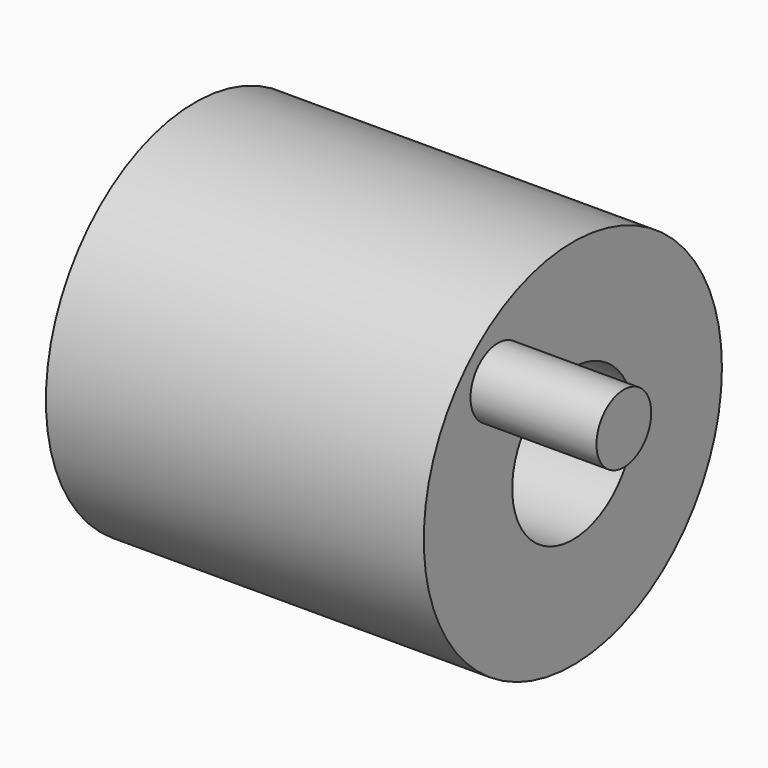
from build123d import *

# Parameters (mm, degrees)
F0_R     = 37.573612
F1_DEPTH = 76.2
F2_R     = 15.282658
F3_DEPTH = 76.2
F4_R     = 6.905206
F5_DEPTH = 25.4


with BuildPart() as f1:
    # F0 (on Right) → F1 (new body)
    with BuildSketch(Plane.YZ):
        Circle(F0_R)
    extrude(amount=F1_DEPTH)

    # F2 (on face) → F3 (cut)
    with BuildSketch(Plane.YZ.offset(76.2)):
        Circle(F2_R)
    extrude(amount=-F3_DEPTH, mode=Mode.SUBTRACT)

    # F4 (on face) → F5 (join)
    with BuildSketch(Plane.YZ.offset(76.2)):
        with Locations((-18.894237, 20.407373)):
            Circle(F4_R)
    extrude(amount=F5_DEPTH)


solid = f1.part
